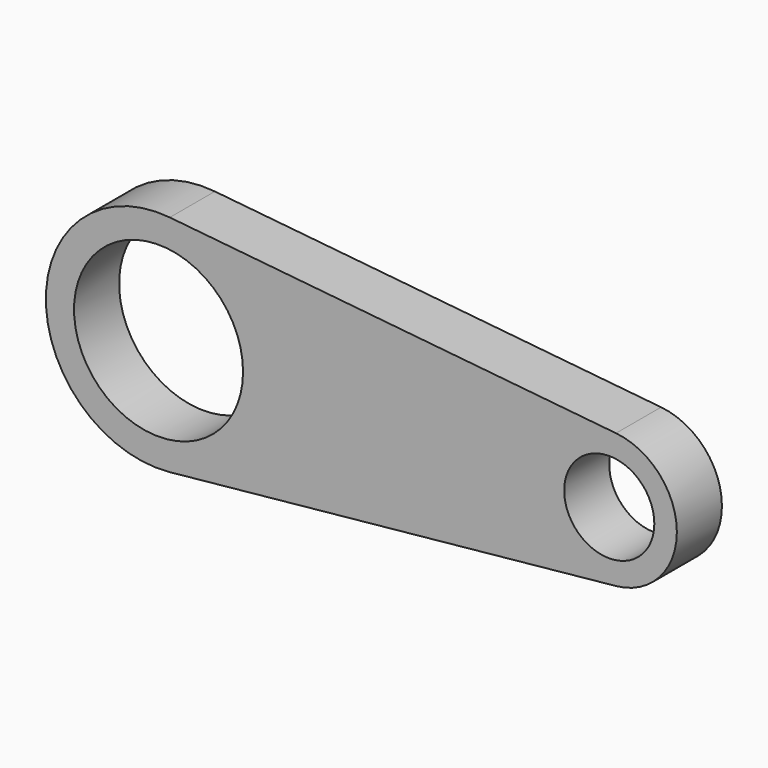
from build123d import *

# Parameters (mm, degrees)
F0_R     = 7.5
F0_R_2   = 4
F1_DEPTH = 5


with BuildPart() as f1:
    # F0 (on Front) → F1 (new body)
    with BuildSketch(Plane.XZ):
        with BuildLine():
            Line((-39, -9.949874), (0.6, -5.969925))
            ThreePointArc((0.6, -5.969925), (6, 0), (0.6, 5.969925))
            Line((0.6, 5.969925), (-39, 9.949874))
            ThreePointArc((-39, 9.949874), (-50, 0), (-39, -9.949874))
        make_face()
        with Locations((-40, 0)):
            Circle(F0_R, mode=Mode.SUBTRACT)
        Circle(F0_R_2, mode=Mode.SUBTRACT)
    extrude(amount=F1_DEPTH)


solid = f1.part
